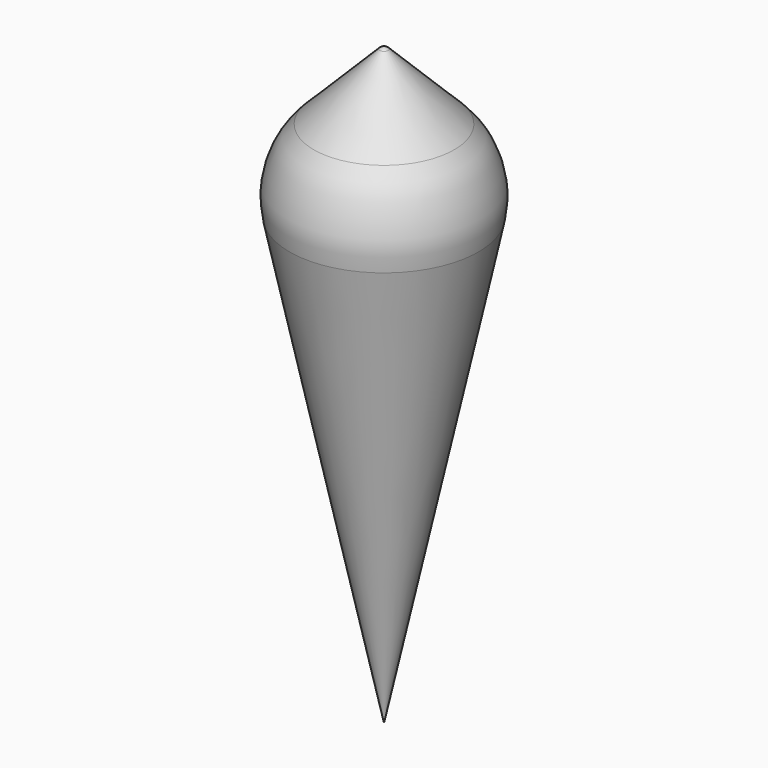
from build123d import *

# Parameters (mm, degrees)
F2_R = 15


with BuildPart() as f1:
    # F0 (on Front) → F1 (revolve)
    with BuildSketch(Plane.XZ):
        with BuildLine():
            Line((-17.5, 82.5), (-0.048912, 0.230584))
            ThreePointArc((-0.048912, 0.230584), (-0.031474, 0.202108), (0, 0.190959))
            Line((0, 0.190959), (0, 99.585786))
            ThreePointArc((0, 99.585786), (-0.382683, 99.509666), (-0.707107, 99.292893))
            Line((-0.707107, 99.292893), (-17.5, 82.5))
        make_face()
    revolve(axis=Axis((0, 0, 49.888373), (0, 0, -1)))

    # F2
    f2_edges = [f1.edges().sort_by_distance(p)[0] for p in [
        (17.5, 0, 82.5),
    ]]
    fillet(f2_edges, radius=F2_R)


solid = f1.part
